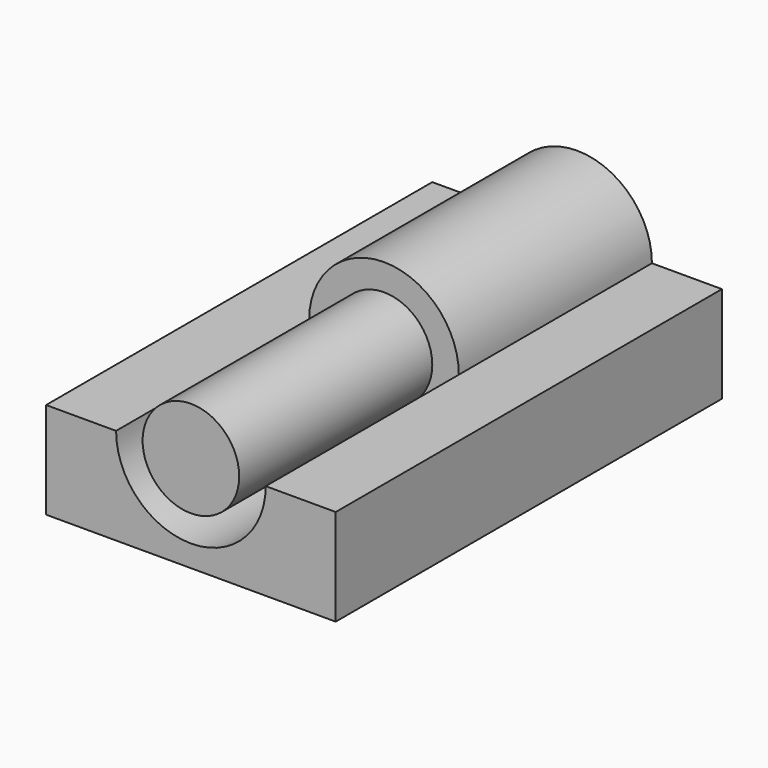
from build123d import *

# Parameters (mm, degrees)
F1_DEPTH = 10
F2_DEPTH = 20


with BuildPart() as f1:
    # F0 (on Front) → F1 (new body)
    with BuildSketch(Plane.XZ):
        with BuildLine():
            Line((3.1, 0), (2, 0))
            ThreePointArc((2, 0), (0, -2), (-2, 0))
            Line((-2, 0), (-3.1, 0))
            ThreePointArc((-3.1, 0), (0, -3.1), (3.1, 0))
        make_face()
        with BuildLine():
            ThreePointArc((-2, 0), (0, 2), (2, 0))
            Line((2, 0), (3.1, 0))
            ThreePointArc((3.1, 0), (0, 3.1), (-3.1, 0))
            Line((-3.1, 0), (-2, 0))
        make_face()
    extrude(amount=F1_DEPTH)

    # F0 (on Front) → F2 (join)
    with BuildSketch(Plane.XZ):
        with BuildLine():
            Line((6, 0), (3.1, 0))
            ThreePointArc((3.1, 0), (0, -3.1), (-3.1, 0))
            Line((-3.1, 0), (-6, 0))
            Line((-6, 0), (-6, -4))
            Line((-6, -4), (6, -4))
            Line((6, -4), (6, 0))
        make_face()
        with BuildLine():
            ThreePointArc((-2, 0), (0, -2), (2, 0))
            Line((2, 0), (-2, 0))
        make_face()
        with BuildLine():
            Line((-2, 0), (2, 0))
            ThreePointArc((2, 0), (0, 2), (-2, 0))
        make_face()
    extrude(amount=F2_DEPTH)


solid = f1.part
